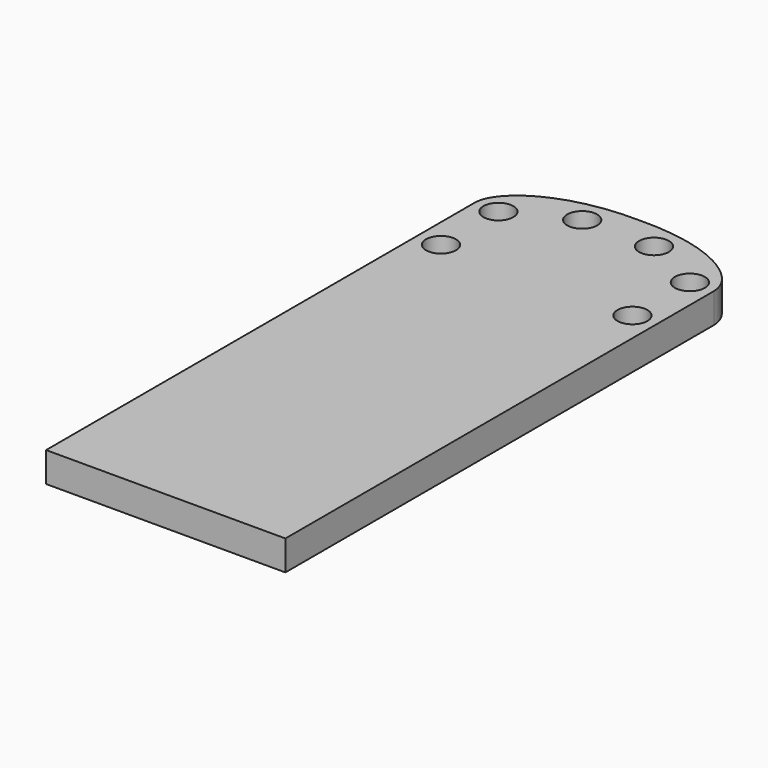
from build123d import *

# Parameters (mm, degrees)
F0_R     = 5
F1_DEPTH = 10


with BuildPart() as f1:
    # F0 (on Top) → F1 (new body)
    with BuildSketch(Plane.XY):
        with BuildLine():
            Line((0, 179), (0, 0))
            Line((0, 0), (80, 0))
            Line((80, 0), (80, 179))
            add(Edge.make_bspline(
                [(80, 179), (80, 187.812909), (65.177009, 198.640153), (40, 198.158935)],
                knots=[0, 0, 0, 0, 44.351604, 44.351604, 44.351604, 44.351604], degree=3))
            add(Edge.make_bspline(
                [(0, 179), (0, 187.812909), (14.822991, 198.640153), (40, 198.158935)],
                knots=[0, 0, 0, 0, 44.351604, 44.351604, 44.351604, 44.351604], degree=3))
        make_face()
        with Locations((8, 155)):
            Circle(F0_R, mode=Mode.SUBTRACT)
        with Locations((8, 179)):
            Circle(F0_R, mode=Mode.SUBTRACT)
        with Locations((28, 189)):
            Circle(F0_R, mode=Mode.SUBTRACT)
        with Locations((52, 189)):
            Circle(F0_R, mode=Mode.SUBTRACT)
        with Locations((72, 155)):
            Circle(F0_R, mode=Mode.SUBTRACT)
        with Locations((72, 179)):
            Circle(F0_R, mode=Mode.SUBTRACT)
    extrude(amount=F1_DEPTH)


solid = f1.part
